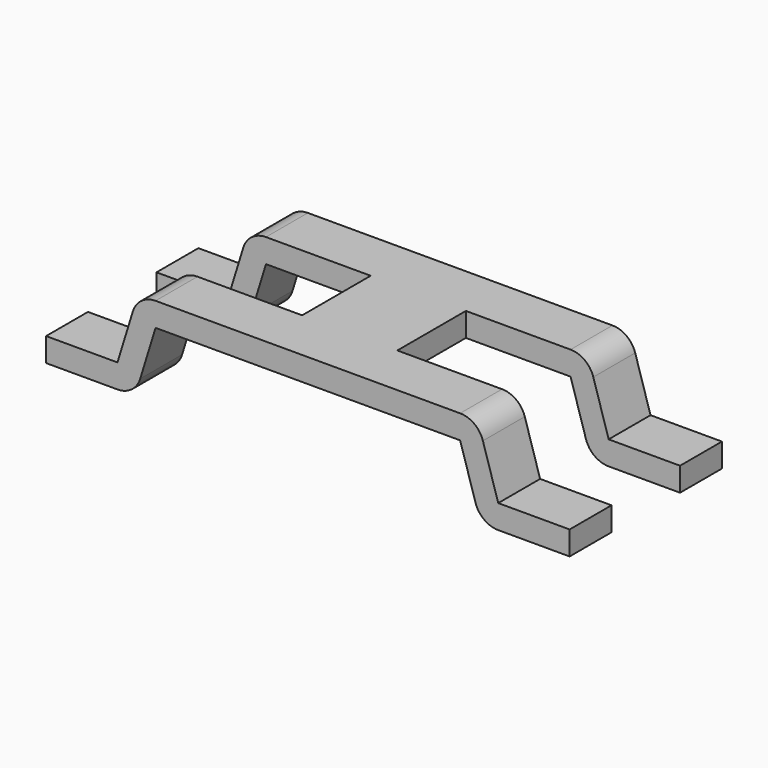
from build123d import *

# Parameters (mm, degrees)
PAD010_DEPTH         = 2
SKETCH013_W          = 5
SKETCH013_H          = 1.8
POCKET001_DEPTH      = 23.716818
POCKET001_DEPTH_BACK = 25.616818


with BuildPart() as part:
    # Sketch014 → Pad010 (new body, symmetric)
    with BuildSketch(Plane.XZ):
        with BuildLine():
            Line((0, 1.9), (3.2, 1.9))
            ThreePointArc((3.677897, 1.547019), (3.497061, 1.802188), (3.2, 1.9))
            Line((4, 0.5), (3.677897, 1.547019))
            Line((4, 0.5), (5.5, 0.5))
            Line((5.5, 0.5), (5.5, 0))
            Line((5.5, 0), (4, 0))
            ThreePointArc((3.522103, 0.352981), (3.702939, 0.097812), (4, 0))
            Line((3.2, 1.4), (3.522103, 0.352981))
            Line((3.2, 1.4), (0, 1.4))
            Line((0, 1.4), (0, 1.9))
        make_face()
    pad010 = extrude(amount=PAD010_DEPTH, both=True)

    # Mirrored002: Pad010 across YZ
    add(pad010.mirror(Plane.YZ))

    # Sketch013 → Pocket001 (cut, two sides)
    with BuildSketch(Plane.XY) as pocket001_sk:
        with Locations((3.5, 0)):
            Rectangle(SKETCH013_W, SKETCH013_H)
    pocket001 = extrude(amount=-POCKET001_DEPTH, mode=Mode.SUBTRACT) + extrude(pocket001_sk.sketch, amount=POCKET001_DEPTH_BACK, mode=Mode.SUBTRACT)

    # Mirrored003: Pocket001 across YZ
    add(pocket001.mirror(Plane.YZ), mode=Mode.SUBTRACT)


with BuildPart() as part_1:
    # Body008 placement: moved
    add(part.part.moved(Location((0, 29.75, 0))))


solid = part_1.part
